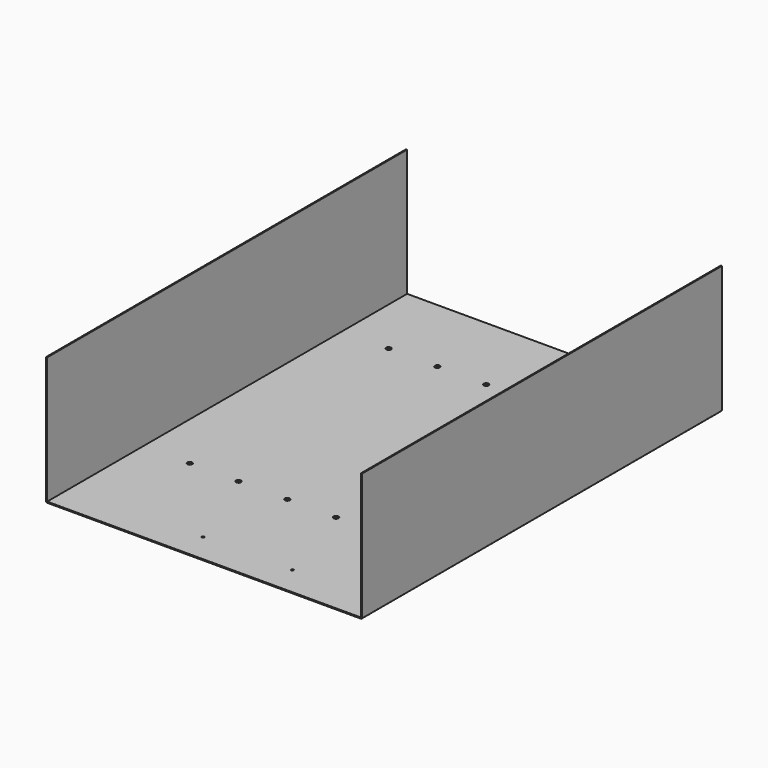
from build123d import *

# Parameters (mm, degrees)
F0_W     = 431.8
F0_H     = 615
F1_DEPTH = 1.5
F2_W     = 615
F2_H     = 173.5
F3_DEPTH = 1.5
F4_W     = 615
F4_H     = 173.5
F5_DEPTH = 1.5
F6_R     = 1.5
F8_D     = 6.7564
F9_D     = 3.3


with BuildPart() as f1:
    # F0 (on Top) → F1 (new body)
    with BuildSketch(Plane.XY):
        Rectangle(F0_W, F0_H)
    extrude(amount=-F1_DEPTH)

    # F2 (on face) → F3 (join)
    with BuildSketch(Plane(origin=(-215.9, 0, 0), x_dir=(0, -1, 0), z_dir=(-1, 0, 0))):
        with Locations((0, 86.75)):
            Rectangle(F2_W, F2_H)
    extrude(amount=-F3_DEPTH)

    # F4 (on face) → F5 (join)
    with BuildSketch(Plane.YZ.offset(215.9)):
        with Locations((0, 86.75)):
            Rectangle(F4_W, F4_H)
    extrude(amount=-F5_DEPTH)

    # F6
    f6_edges = [f1.edges().sort_by_distance(p)[0] for p in [
        (-215.9, 0, -1.5),
        (215.9, 0, -1.5),
    ]]
    fillet(f6_edges, radius=F6_R)

    # F8 (through all)
    with Locations(Plane(origin=(0, 0, -1.5), x_dir=(1, 0, 0), z_dir=(0, 0, -1))):
        with Locations((-84.1375, 143.35), (-17.4625, 143.35), (49.2125, 143.35), (115.8875, 143.35), (182.5625, 143.35), (182.5625, -196.375), (115.8875, -196.375), (49.2125, -196.375), (-17.4625, -196.375), (-84.1375, -196.375), (-150.8125, -196.375), (-150.8125, 143.35)):
            Hole(F8_D / 2)

    # F9 (through all)
    with Locations(Plane(origin=(0, 0, -1.5), x_dir=(1, 0, 0), z_dir=(0, 0, -1))):
        with Locations((-33.382, 267.5), (88.618, 267.5)):
            Hole(F9_D / 2)


solid = f1.part
